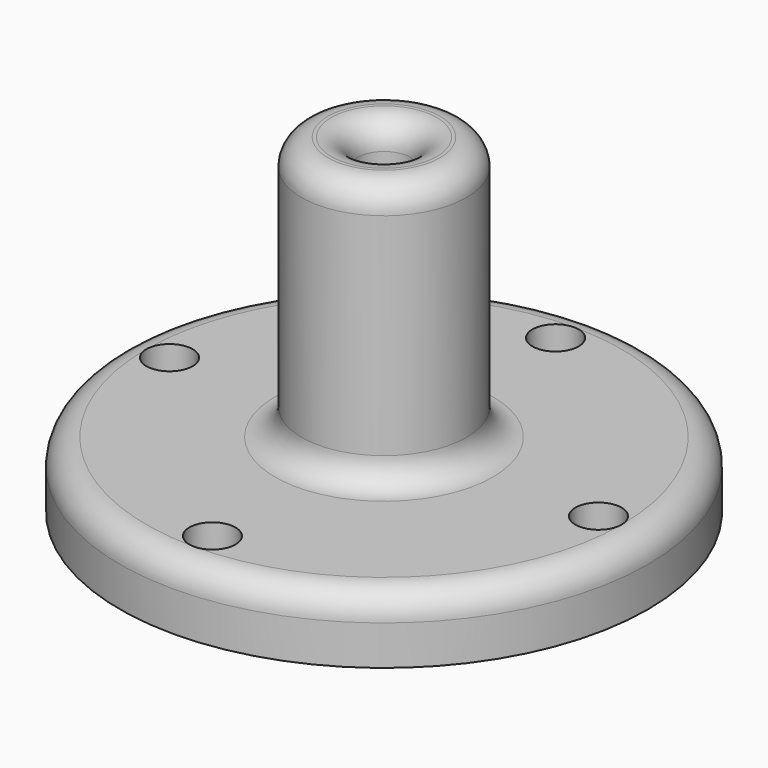
from build123d import *

# Parameters (mm, degrees)
F0_R     = 25.4
F0_R_2   = 2.2225
F1_DEPTH = 6.35
F3_R     = 2.54
F2_R     = 2.54
F4_DEPTH = 25.4
F2_R_2   = 7.9375
F5_DEPTH = 25.4
F6_R     = 2.54
F7_DEPTH = 25.4
F8_R     = 2.54
F9_SIZE  = 5.08


with BuildPart() as f1:
    # F0 (on Top) → F1 (new body)
    with BuildSketch(Plane.XY):
        Circle(F0_R)
        with Locations((0, -20.6375)):
            Circle(F0_R_2, mode=Mode.SUBTRACT)
        with Locations((-20.6375, 0)):
            Circle(F0_R_2, mode=Mode.SUBTRACT)
        with Locations((20.6375, 0)):
            Circle(F0_R_2, mode=Mode.SUBTRACT)
        with BuildLine():
            Line((-4.064, 10.31875), (-4.064, 0))
            ThreePointArc((-4.064, 0), (0, -4.064), (4.064, 0))
            Line((4.064, 0), (4.064, 10.31875))
            ThreePointArc((4.064, 10.31875), (7.239, 14.1114143812), (10.414, 10.31875))
            Line((10.414, 10.31875), (10.414, 0))
            ThreePointArc((10.414, 0), (0, -10.414), (-10.414, 0))
            Line((-10.414, 0), (-10.414, 10.31875))
            ThreePointArc((-10.414, 10.31875), (-7.239, 14.1114143812), (-4.064, 10.31875))
        make_face(mode=Mode.SUBTRACT)
        with Locations((0, 20.6375)):
            Circle(F0_R_2, mode=Mode.SUBTRACT)
        with BuildLine():
            ThreePointArc((4.064, 0), (0, -4.064), (-4.064, 0))
            Line((-4.064, 0), (-4.064, 10.31875))
            ThreePointArc((-4.064, 10.31875), (-7.239, 14.1114143812), (-10.414, 10.31875))
            Line((-10.414, 10.31875), (-10.414, 0))
            ThreePointArc((-10.414, 0), (0, -10.414), (10.414, 0))
            Line((10.414, 0), (10.414, 10.31875))
            ThreePointArc((10.414, 10.31875), (7.239, 14.1114143812), (4.064, 10.31875))
            Line((4.064, 10.31875), (4.064, 0))
        make_face()
        with Locations((0, -20.6375)):
            Circle(F0_R_2)
        with Locations((-20.6375, 0)):
            Circle(F0_R_2)
        with Locations((0, 20.6375)):
            Circle(F0_R_2)
        with Locations((20.6375, 0)):
            Circle(F0_R_2)
    extrude(amount=F1_DEPTH)

    # F3
    f3_edges = [f1.edges().sort_by_distance(p)[0] for p in [
        (-25.4, 0, 6.35),
    ]]
    fillet(f3_edges, radius=F3_R)

    # F2 (on face) → F4 (cut)
    with BuildSketch(Plane.XY.offset(6.35)):
        Circle(F2_R)
    extrude(amount=-F4_DEPTH, mode=Mode.SUBTRACT)

    # F2 (on face) → F5 (join)
    with BuildSketch(Plane.XY.offset(6.35)):
        Circle(F2_R_2)
        Circle(F2_R, mode=Mode.SUBTRACT)
    extrude(amount=F5_DEPTH)

    # F6
    f6_edges = [f1.edges().sort_by_distance(p)[0] for p in [
        (-22.86, 0, 6.35),
        (-7.9375, 0, 6.35),
    ]]
    fillet(f6_edges, radius=F6_R)

    # F0 (on Top) → F7 (cut)
    with BuildSketch(Plane.XY):
        with Locations((20.6375, 0)):
            Circle(F0_R_2)
        with Locations((0, 20.6375)):
            Circle(F0_R_2)
        with Locations((-20.6375, 0)):
            Circle(F0_R_2)
        with Locations((0, -20.6375)):
            Circle(F0_R_2)
    extrude(amount=F7_DEPTH, mode=Mode.SUBTRACT)

    # F8
    f8_edges = [f1.edges().sort_by_distance(p)[0] for p in [
        (-7.9375, 0, 31.75),
        (-2.54, 0, 31.75),
    ]]
    fillet(f8_edges, radius=F8_R)

    # F9
    f9_edges = [f1.edges().sort_by_distance(p)[0] for p in [
        (-2.54, 0, 0),
    ]]
    chamfer(f9_edges, length=F9_SIZE)


solid = f1.part
